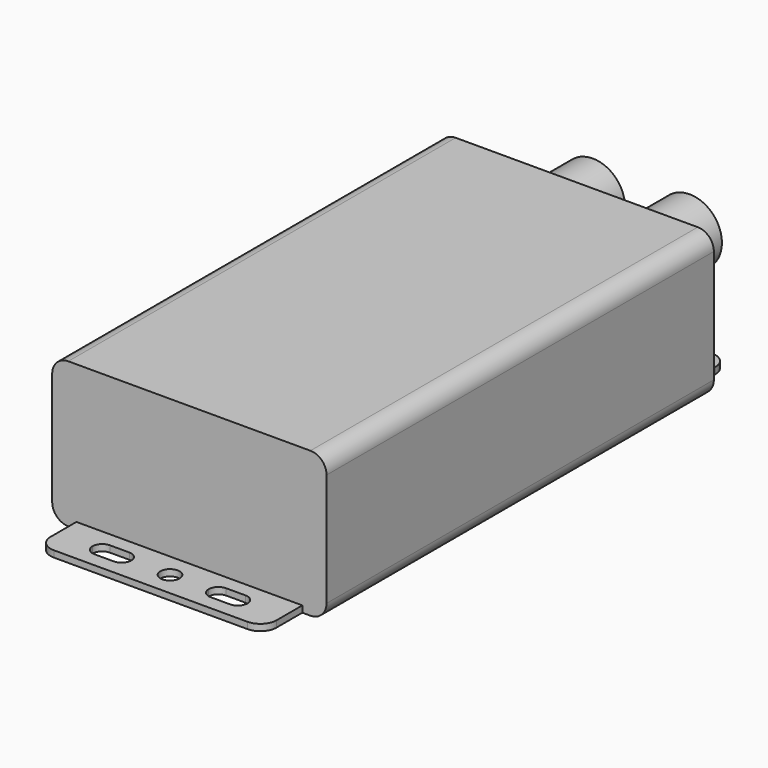
from build123d import *

# Parameters (mm, degrees)
F1_DEPTH = 150
F2_R     = 3
F3_DEPTH = 2
F4_R     = 10
F5_DEPTH = 25


with BuildPart() as f1:
    # F0 (on Front) → F1 (new body)
    with BuildSketch(Plane.XZ):
        with BuildLine():
            ThreePointArc((42.5, 17.5), (41.035534, 21.035534), (37.5, 22.5))
            Line((37.5, 22.5), (-37.5, 22.5))
            ThreePointArc((-37.5, 22.5), (-41.035534, 21.035534), (-42.5, 17.5))
            Line((-42.5, 17.5), (-42.5, -17.5))
            ThreePointArc((-42.5, -17.5), (-41.035534, -21.035534), (-37.5, -22.5))
            Line((-37.5, -22.5), (37.5, -22.5))
            ThreePointArc((37.5, -22.5), (41.035534, -21.035534), (42.5, -17.5))
            Line((42.5, -17.5), (42.5, 17.5))
        make_face()
    extrude(amount=F1_DEPTH)

    # F2 (on face) → F3 (join)
    with BuildSketch(Plane(origin=(0, 0, -22.5), x_dir=(1, 0, 0), z_dir=(0, 0, -1))):
        with BuildLine():
            Line((30, 165), (-30, 165))
            ThreePointArc((-30, 165), (-33.535534, 163.535534), (-35, 160))
            Line((-35, 160), (-35, -10))
            ThreePointArc((-35, -10), (-33.535534, -13.535534), (-30, -15))
            Line((-30, -15), (30, -15))
            ThreePointArc((30, -15), (33.535534, -13.535534), (35, -10))
            Line((35, -10), (35, 160))
            ThreePointArc((35, 160), (33.535534, 163.535534), (30, 165))
        make_face()
        with BuildLine():
            Line((-21, -4.5), (-15, -4.5))
            ThreePointArc((-15, -4.5), (-12.87868, -5.37868), (-12, -7.5))
            ThreePointArc((-12, -7.5), (-12.87868, -9.62132), (-15, -10.5))
            Line((-15, -10.5), (-21, -10.5))
            ThreePointArc((-21, -10.5), (-23.12132, -9.62132), (-24, -7.5))
            ThreePointArc((-24, -7.5), (-23.12132, -5.37868), (-21, -4.5))
        make_face(mode=Mode.SUBTRACT)
        with Locations((0, -7.5)):
            Circle(F2_R, mode=Mode.SUBTRACT)
        with BuildLine():
            ThreePointArc((24, -7.5), (23.12132, -9.62132), (21, -10.5))
            Line((21, -10.5), (15, -10.5))
            ThreePointArc((15, -10.5), (12.87868, -9.62132), (12, -7.5))
            ThreePointArc((12, -7.5), (12.87868, -5.37868), (15, -4.5))
            Line((15, -4.5), (21, -4.5))
            ThreePointArc((21, -4.5), (23.12132, -5.37868), (24, -7.5))
        make_face(mode=Mode.SUBTRACT)
        with BuildLine():
            Line((-21, 160.5), (-15, 160.5))
            ThreePointArc((-15, 160.5), (-12.87868, 159.62132), (-12, 157.5))
            ThreePointArc((-12, 157.5), (-12.87868, 155.37868), (-15, 154.5))
            Line((-15, 154.5), (-21, 154.5))
            ThreePointArc((-21, 154.5), (-23.12132, 155.37868), (-24, 157.5))
            ThreePointArc((-24, 157.5), (-23.12132, 159.62132), (-21, 160.5))
        make_face(mode=Mode.SUBTRACT)
        with Locations((0, 157.5)):
            Circle(F2_R, mode=Mode.SUBTRACT)
        with BuildLine():
            ThreePointArc((12, 157.5), (12.87868, 159.62132), (15, 160.5))
            Line((15, 160.5), (21, 160.5))
            ThreePointArc((21, 160.5), (23.12132, 159.62132), (24, 157.5))
            ThreePointArc((24, 157.5), (23.12132, 155.37868), (21, 154.5))
            Line((21, 154.5), (15, 154.5))
            ThreePointArc((15, 154.5), (12.87868, 155.37868), (12, 157.5))
        make_face(mode=Mode.SUBTRACT)
    extrude(amount=-F3_DEPTH)

    # F4 (on Front) → F5 (join)
    with BuildSketch(Plane.XZ):
        with Locations((15, 4)):
            Circle(F4_R)
        with Locations((-15, 4)):
            Circle(F4_R)
    extrude(amount=-F5_DEPTH)


solid = f1.part
